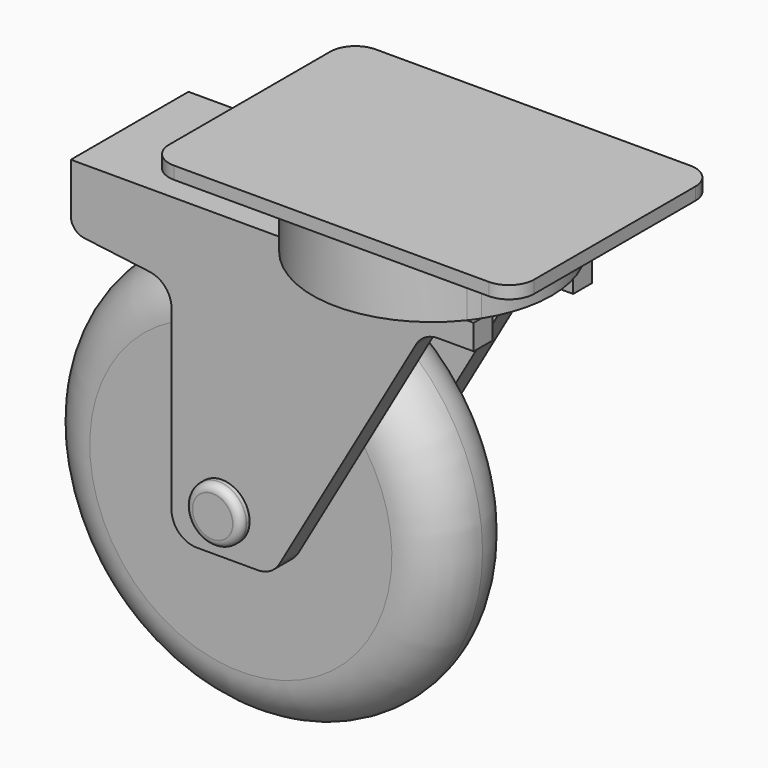
from build123d import *

# Parameters (mm, degrees)
F2_R      = 6.985
F3_DEPTH  = 8.89
F4_R      = 1.9622727835
F5_R      = 6.985
F6_DEPTH  = 8.89
F7_R      = 1.8396307345
F9_DEPTH  = 5.969
F12_DEPTH = 19.05
F14_DEPTH = 3.175
F15_W     = 57.15
F15_H     = 37.084
F16_DEPTH = 3.175


with BuildPart() as f1:
    # F0 (on Right) → F1 (revolve)
    with BuildSketch(Plane.YZ):
        with BuildLine():
            Line((-12.7, 0), (0, 0))
            Line((0, 0), (0, 50.8))
            ThreePointArc((0, 50.8), (-8.9802561211, 47.0802561211), (-12.7, 38.1))
            Line((-12.7, 38.1), (-12.7, 0))
        make_face()
        with BuildLine():
            Line((0, 50.8), (0, 0))
            Line((0, 0), (12.7, 0))
            Line((12.7, 0), (12.7, 38.1))
            ThreePointArc((12.7, 38.1), (8.9802561211, 47.0802561211), (0, 50.8))
        make_face()
    revolve(axis=Axis((0, -14.7607661784, 0), (0, -1, 0)))

    # F2 (on face) → F3 (join)
    with BuildSketch(Plane.XZ.offset(12.7)):
        Circle(F2_R)
    extrude(amount=F3_DEPTH)

    # F4
    f4_edges = [f1.edges().sort_by_distance(p)[0] for p in [
        (-6.985, -21.59, 0),
    ]]
    fillet(f4_edges, radius=F4_R)

    # F5 (on face) → F6 (join)
    with BuildSketch(Plane(origin=(0, 12.7, 0), x_dir=(-1, 0, 0), z_dir=(0, 1, 0))):
        Circle(F5_R)
    extrude(amount=F6_DEPTH)

    # F7
    f7_edges = [f1.edges().sort_by_distance(p)[0] for p in [
        (6.985, 21.59, 0),
    ]]
    fillet(f7_edges, radius=F7_R)

    # F8 (on face) → F9 (join)
    with BuildSketch(Plane.XZ.offset(12.7)):
        with BuildLine():
            Line((1.7471951485, 62.4704148293), (0, 62.4704148293))
            Line((0, 62.4704148293), (-12.7, 62.4704148293))
            Line((-12.7, 62.4704148293), (-38.1, 62.4704148293))
            Line((-38.1, 62.4704148293), (-38.1, 53.124037792))
            ThreePointArc((-38.1, 53.124037792), (-37.1499121134, 50.6066973892), (-34.7734893943, 49.3448397282))
            Line((-34.7734893943, 49.3448397282), (-18.2441843429, 47.2301731899))
            ThreePointArc((-18.2441843429, 47.2301731899), (-14.2834798111, 45.1270770883), (-12.7, 40.9315097502))
            Line((-12.7, 40.9315097502), (-12.7, 0))
            Line((-12.7, 0), (-12.7, -3.81))
            ThreePointArc((-12.7, -3.81), (-10.8401280605, -8.3001280605), (-6.35, -10.16))
            Line((-6.35, -10.16), (9.0258122236, -10.16))
            ThreePointArc((9.0258122236, -10.16), (10.9539405401, -9.8601918313), (12.7, -8.9890775418))
            Line((12.7, -8.9890775418), (12.7, 0))
            Line((12.7, 0), (12.7, 62.4704148293))
            Line((12.7, 62.4704148293), (1.7471951485, 62.4704148293))
        make_face()
        with BuildLine():
            Line((63.5, 62.4704148293), (12.7, 62.4704148293))
            Line((12.7, 62.4704148293), (12.7, 0))
            Line((12.7, 0), (12.7, -8.9890775418))
            ThreePointArc((12.7, -8.9890775418), (13.7247586768, -8.0811125283), (14.531070583, -6.9745900834))
            Line((14.531070583, -6.9745900834), (48.968929417, 52.9350049127))
            ThreePointArc((48.968929417, 52.9350049127), (51.2939870776, 55.2666702377), (54.4741877764, 56.1204148293))
            Line((54.4741877764, 56.1204148293), (63.5, 56.1204148293))
            Line((63.5, 56.1204148293), (63.5, 62.4704148293))
        make_face()
    extrude(amount=F9_DEPTH)


with BuildPart() as f10_1:
    # F10: instance of F1
    add(f1.part.mirror(Plane.XZ))


with BuildPart() as f12:
    # F11 (on face) → F12 (new body)
    with BuildSketch(Plane.XY.offset(62.4704148293)):
        with BuildLine():
            ThreePointArc((63.5, -16.267034341), (67.0473997645, -8.4749308625), (68.2625, 0))
            ThreePointArc((68.2625, 0), (31.597067385, 29.453153883), (10.7415203959, -12.7))
            Line((10.7415203959, -12.7), (63.5, -12.7))
            Line((63.5, -12.7), (63.5, -16.267034341))
        make_face()
        with BuildLine():
            Line((63.5, -12.7), (10.7415203959, -12.7))
            ThreePointArc((10.7415203959, -12.7), (12.4015653576, -15.7913540642), (14.4093933119, -18.669))
            Line((14.4093933119, -18.669), (61.7906066881, -18.669))
            ThreePointArc((61.7906066881, -18.669), (62.6746673631, -17.4889144958), (63.5, -16.267034341))
            Line((63.5, -16.267034341), (63.5, -12.7))
        make_face()
        with BuildLine():
            Line((61.7906066881, -18.669), (14.4093933119, -18.669))
            ThreePointArc((14.4093933119, -18.669), (38.1, -30.1625), (61.7906066881, -18.669))
        make_face()
    extrude(amount=F12_DEPTH)

    # F13 (on face) → F14 (join)
    with BuildSketch(Plane.XY.offset(81.5204148293)):
        with BuildLine():
            Line((-1.5875, -31.75), (77.7875, -31.75))
            ThreePointArc((77.7875, -31.75), (82.2776280605, -29.8901280605), (84.1375, -25.4))
            Line((84.1375, -25.4), (84.1375, 25.4))
            ThreePointArc((84.1375, 25.4), (82.2776280605, 29.8901280605), (77.7875, 31.75))
            Line((77.7875, 31.75), (-1.5875, 31.75))
            ThreePointArc((-1.5875, 31.75), (-6.0776280605, 29.8901280605), (-7.9375, 25.4))
            Line((-7.9375, 25.4), (-7.9375, -25.4))
            ThreePointArc((-7.9375, -25.4), (-6.0776280605, -29.8901280605), (-1.5875, -31.75))
        make_face()
    extrude(amount=-F14_DEPTH)


with BuildPart() as f1_1:
    add(f1.part)

    add(f10_1.part)  # F16 merges F10_1

    add(f12.part)  # F16 merges F12
    # F15 (on face) → F16 (join)
    with BuildSketch(Plane.XY.offset(62.4704148293)):
        with Locations((-9.525, -0.127)):
            Rectangle(F15_W, F15_H)
    extrude(amount=F16_DEPTH)


solid = f1_1.part
